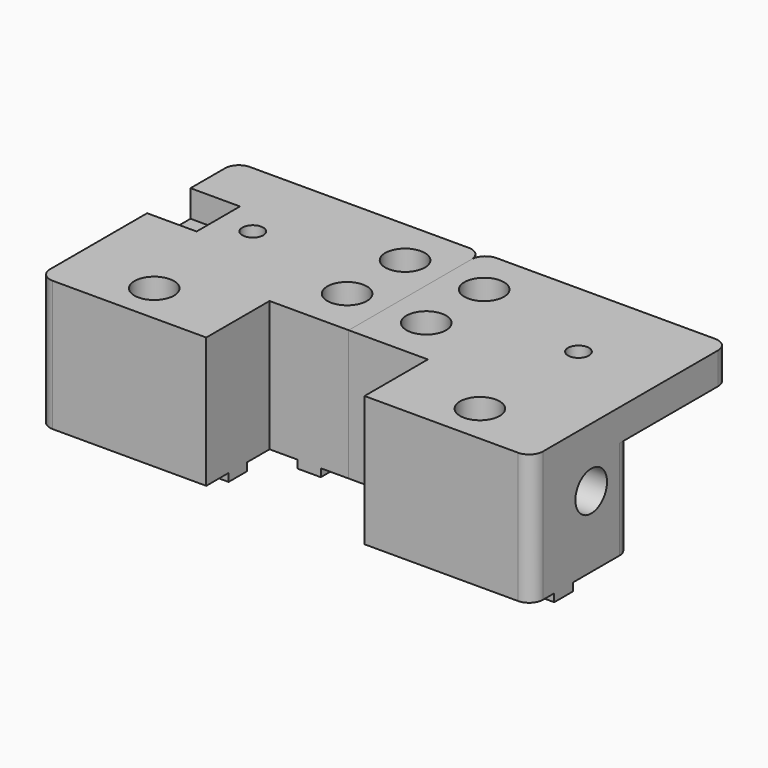
from build123d import *

# Parameters (mm, degrees)
F0_R      = 2.65
F1_DEPTH  = 33
F2_R      = 5
F3_DEPTH  = 12
F5_DEPTH  = 29
F6_R      = 5
F7_DEPTH  = 29
F8_R      = 2.65
F8_W      = 42.3
F8_H      = 5.9
F9_DEPTH  = 2
F10_R     = 3.5
F11_W     = 31.15
F11_H     = 25
F12_DEPTH = 42
F13_R     = 3.5
F14_R     = 2.65
F15_DEPTH = 0.3
F17_W     = 7.5
F17_H     = 13.7
F17_W_2   = 5
F18_DEPTH = 6.8
F19_R     = 1.25
F20_DEPTH = 8
F21_R     = 2
F22_DEPTH = 30


with BuildPart() as f1:
    # F0 (on Top) → F1 (new body)
    with BuildSketch(Plane.XY):
        Polygon((41.15, 35), (-21.15, 35), (-21.15, -27.3), (21.15, -27.3), (21.15, -7.3), (41.15, -7.3), align=None)
        with Locations((0, -17.3)):
            Circle(F0_R, mode=Mode.SUBTRACT)
        with Locations((0, 13.85)):
            Circle(F0_R, mode=Mode.SUBTRACT)
        with Locations((31.15, 4.7)):
            Circle(F0_R, mode=Mode.SUBTRACT)
        with Locations((31.15, 23)):
            Circle(F0_R, mode=Mode.SUBTRACT)
    extrude(amount=F1_DEPTH)

    # F2 (on face) → F3 (cut)
    with BuildSketch(Plane(origin=(-21.15, 0, 0), x_dir=(0, -1, 0), z_dir=(-1, 0, 0))):
        with Locations((8.575, 18)):
            Circle(F2_R)
    extrude(amount=-F3_DEPTH, mode=Mode.SUBTRACT)

    # F4 (on face) → F5 (cut)
    with BuildSketch(Plane(origin=(0, 0, 0), x_dir=(1, 0, 0), z_dir=(0, 0, -1))):
        Polygon((-3.95, -11.5694664367), (-3.95, -16.1305335633), (0, -18.4110671266), (3.95, -16.1305335633), (3.95, -11.5694664367), (0, -9.2889328734), align=None)
    extrude(amount=-F5_DEPTH, mode=Mode.SUBTRACT)

    # F6 (on face) → F7 (cut)
    with BuildSketch(Plane.XY.offset(33)):
        with Locations((31.15, 23)):
            Circle(F6_R)
        with Locations((31.15, 4.7)):
            Circle(F6_R)
        with Locations((0, -17.3)):
            Circle(F6_R)
    extrude(amount=-F7_DEPTH, mode=Mode.SUBTRACT)

    # F8 (on face) → F9 (join)
    with BuildSketch(Plane(origin=(0, 0, 0), x_dir=(1, 0, 0), z_dir=(0, 0, -1))):
        Polygon((34.1, 7.3), (28.2, 7.3), (28.2, -13.5680906466), (28.2, -35), (34.1, -35), (34.1, -13.5680906466), align=None)
        with Locations((31.15, -23)):
            Circle(F8_R, mode=Mode.SUBTRACT)
        with Locations((31.15, -4.7)):
            Circle(F8_R, mode=Mode.SUBTRACT)
        with Locations((0, 17.3)):
            Rectangle(F8_W, F8_H)
        with Locations((0, 17.3)):
            Circle(F8_R, mode=Mode.SUBTRACT)
    extrude(amount=F9_DEPTH)

    # F10
    f10_edges = [f1.edges().sort_by_distance(p)[0] for p in [
        (-21.15, -27.3, 16.5),
        (-21.15, 35, 16.5),
        (41.15, 35, 16.5),
    ]]
    fillet(f10_edges, radius=F10_R)

    # F11 (on face) → F12 (cut)
    with BuildSketch(Plane(origin=(-21.15, 0, 0), x_dir=(0, -1, 0), z_dir=(-1, 0, 0))):
        with Locations((-19.425, 12.5)):
            Rectangle(F11_W, F11_H)
    extrude(amount=-F12_DEPTH, mode=Mode.SUBTRACT)

    # F13
    f13_edges = [f1.edges().sort_by_distance(p)[0] for p in [
        (-21.15, 3.85, 12.5),
        (20.85, 3.85, 12.5),
        (20.85, 35, 12.5),
    ]]
    fillet(f13_edges, radius=F13_R)

    # F14 (on face) → F15 (join)
    with BuildSketch(Plane.XY.offset(4)):
        with Locations((0, -17.3)):
            Circle(F14_R)
        with Locations((31.15, 4.7)):
            Circle(F14_R)
        with Locations((31.15, 23)):
            Circle(F14_R)
    extrude(amount=-F15_DEPTH)


with BuildPart() as f16_1:
    # F16: instance of F1
    add(f1.part.mirror(Plane(origin=(41.15, 12.1, 16.5), x_dir=(0, 1, 0), z_dir=(1, 0, 0))))


with BuildPart() as f1_1:
    add(f1.part)

    # F17 (on face) → F18 (cut)
    with BuildSketch(Plane.XY.offset(33)):
        with Locations((-17.4, 13.75)):
            Rectangle(F17_W, F17_H)
        with Locations((-11.15, 13.75)):
            Rectangle(F17_W_2, F17_H)
    extrude(amount=-F18_DEPTH, mode=Mode.SUBTRACT)

    # F19 (on face) → F20 (cut)
    with BuildSketch(Plane.XY.offset(26.2)):
        with Locations((-15.15, 17)):
            Circle(F19_R)
        with Locations((-15.15, 10.5)):
            Circle(F19_R)
    extrude(amount=-F20_DEPTH, mode=Mode.SUBTRACT)

    # F21 (on face) → F22 (cut)
    with BuildSketch(Plane.XY.offset(26.2)):
        with Locations((-10.65, 13.75)):
            Circle(F21_R)
    extrude(amount=-F22_DEPTH, mode=Mode.SUBTRACT)


solid = Compound([f16_1.part, f1_1.part])
